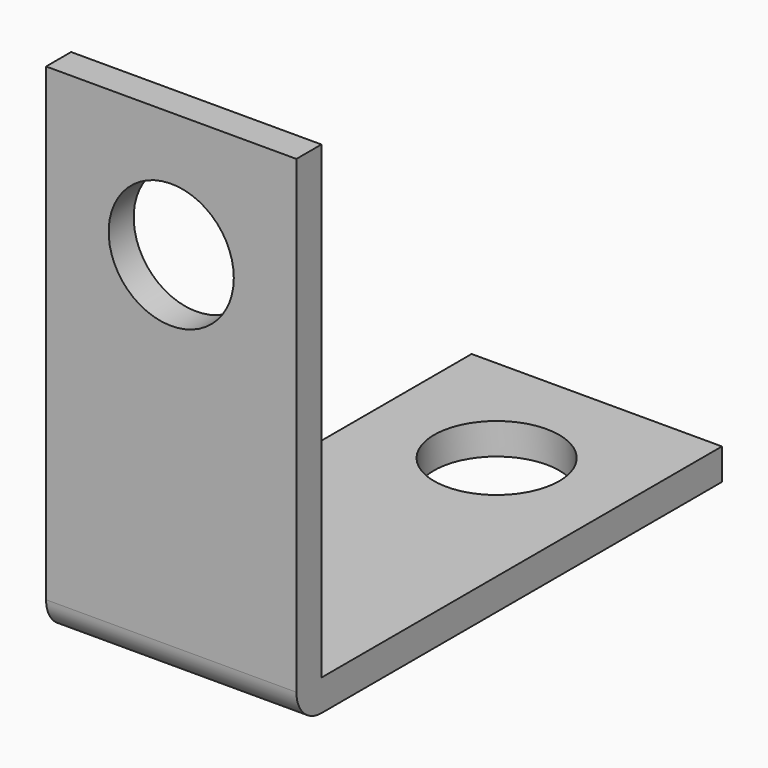
from build123d import *

# Parameters (mm, degrees)
F1_R     = 3.175
F2_DEPTH = 1.5875
F1_W     = 12.7
F1_H     = 1.5875
F3_DEPTH = 26.9875
F4_R     = 3.175
F5_DEPTH = 1.5875
F6_R     = 1.58102


with BuildPart() as f2:
    # F1 (on offset) → F2 (new body)
    with BuildSketch(Plane.XZ.offset(1.5875)):
        Polygon((6.35, 0), (0, 0), (-6.35, 0), (-6.35, -23.8125), (6.35, -23.8125), align=None)
        with Locations((0, -6.35)):
            Circle(F1_R, mode=Mode.SUBTRACT)
    extrude(amount=-F2_DEPTH)

    # F1 (on offset) → F3 (join)
    with BuildSketch(Plane.XZ.offset(1.5875)):
        with Locations((0, -24.60625)):
            Rectangle(F1_W, F1_H)
    extrude(amount=-F3_DEPTH)

    # F4 (on face) → F5 (cut)
    with BuildSketch(Plane.XY.offset(-23.8125)):
        with Locations((0, 19.05)):
            Circle(F4_R)
    extrude(amount=-F5_DEPTH, mode=Mode.SUBTRACT)

    # F6
    f6_edges = [f2.edges().sort_by_distance(p)[0] for p in [
        (0, -1.5875, -25.4),
    ]]
    fillet(f6_edges, radius=F6_R)


solid = f2.part
